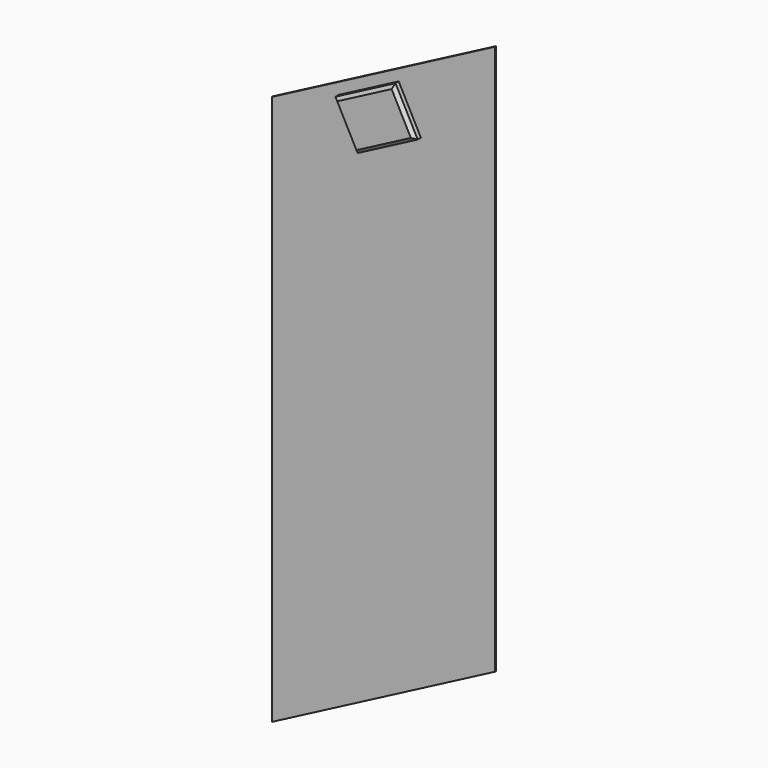
from build123d import *

# Parameters (mm, degrees)
F1_DEPTH = 1.75
F3_DEPTH = 9
F4_SIZE  = 4


with BuildPart() as f1:
    # F0 (on Front) → F1 (new body)
    with BuildSketch(Plane.XZ):
        Polygon((0, 690), (-280, 543.521333), (-280, -146.478667), (0, 0), align=None)
    extrude(amount=F1_DEPTH)

    # F2 (on face) → F3 (join)
    with BuildSketch(Plane.XZ.offset(1.75)):
        Polygon((-120.85038, 612.445705), (-196.166836, 573.044798), (-168.35443, 519.880241), (-93.037975, 559.281148), align=None)
    extrude(amount=F3_DEPTH)

    # F4
    f4_edges = [f1.edges().sort_by_distance(p)[0] for p in [
        (-106.944177, -10.75, 585.863427),
        (-158.508608, -10.75, 592.745251),
        (-182.260633, -10.75, 546.462519),
        (-130.696203, -10.75, 539.580694),
    ]]
    chamfer(f4_edges, length=F4_SIZE)


solid = f1.part
